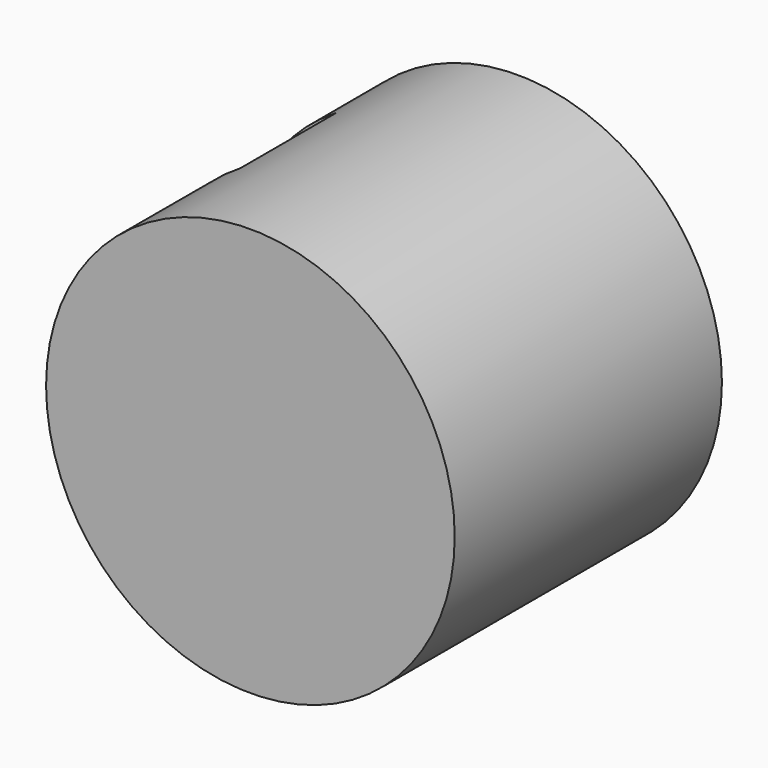
from build123d import *

# Parameters (mm, degrees)
F0_R     = 61.172515
F1_DEPTH = 100
F2_W     = 38.808316
F2_H     = 35.829126
F3_DEPTH = 92.951528


with BuildPart() as f1:
    # F0 (on Front) → F1 (new body)
    with BuildSketch(Plane.XZ):
        Circle(F0_R)
    extrude(amount=F1_DEPTH)

    # F2 (on Top) → F3 (cut, symmetric)
    with BuildSketch(Plane.XY):
        with Locations((-51.109068, -46.182558)):
            Rectangle(F2_W, F2_H)
    extrude(amount=F3_DEPTH, both=True, mode=Mode.SUBTRACT)


solid = f1.part
